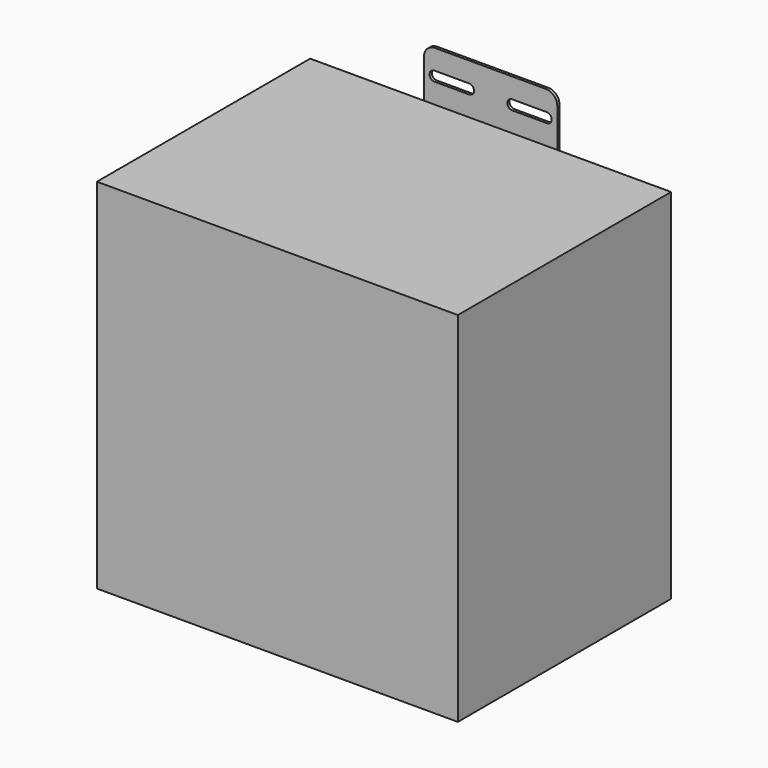
from build123d import *

# Parameters (mm, degrees)
F0_W     = 412.75
F0_H     = 304.8
F1_DEPTH = 204.7875
F3_DEPTH = 3.175


with BuildPart() as f1:
    # F0 (on Top) → F1 (new body, symmetric)
    with BuildSketch(Plane.XY):
        Rectangle(F0_W, F0_H)
    extrude(amount=F1_DEPTH, both=True)

    # F2 (on face) → F3 (join)
    with BuildSketch(Plane(origin=(0, 152.4, 0), x_dir=(-1, 0, 0), z_dir=(0, 1, 0))):
        with BuildLine():
            ThreePointArc((76.2, 249.2375), (72.4802561211, 258.2177561211), (63.5, 261.9375))
            Line((63.5, 261.9375), (-63.5, 261.9375))
            ThreePointArc((-63.5, 261.9375), (-72.4802561211, 258.2177561211), (-76.2, 249.2375))
            Line((-76.2, 249.2375), (-76.2, -249.2375))
            ThreePointArc((-76.2, -249.2375), (-72.4802561211, -258.2177561211), (-63.5, -261.9375))
            Line((-63.5, -261.9375), (63.5, -261.9375))
            ThreePointArc((63.5, -261.9375), (72.4802561211, -258.2177561211), (76.2, -249.2375))
            Line((76.2, -249.2375), (76.2, 249.2375))
        make_face()
        with BuildLine():
            Line((-64.29375, -227.80625), (-24.60625, -227.80625))
            ThreePointArc((-24.60625, -227.80625), (-19.05, -233.3625), (-24.60625, -238.91875))
            Line((-24.60625, -238.91875), (-64.29375, -238.91875))
            ThreePointArc((-64.29375, -238.91875), (-69.85, -233.3625), (-64.29375, -227.80625))
        make_face(mode=Mode.SUBTRACT)
        with BuildLine():
            Line((24.60625, -227.80625), (64.29375, -227.80625))
            ThreePointArc((64.29375, -227.80625), (69.85, -233.3625), (64.29375, -238.91875))
            Line((64.29375, -238.91875), (24.60625, -238.91875))
            ThreePointArc((24.60625, -238.91875), (19.05, -233.3625), (24.60625, -227.80625))
        make_face(mode=Mode.SUBTRACT)
        with BuildLine():
            Line((-64.29375, 238.91875), (-24.60625, 238.91875))
            ThreePointArc((-24.60625, 238.91875), (-19.05, 233.3625), (-24.60625, 227.80625))
            Line((-24.60625, 227.80625), (-64.29375, 227.80625))
            ThreePointArc((-64.29375, 227.80625), (-69.85, 233.3625), (-64.29375, 238.91875))
        make_face(mode=Mode.SUBTRACT)
        with BuildLine():
            Line((24.60625, 238.91875), (64.29375, 238.91875))
            ThreePointArc((64.29375, 238.91875), (69.85, 233.3625), (64.29375, 227.80625))
            Line((64.29375, 227.80625), (24.60625, 227.80625))
            ThreePointArc((24.60625, 227.80625), (19.05, 233.3625), (24.60625, 238.91875))
        make_face(mode=Mode.SUBTRACT)
    extrude(amount=F3_DEPTH)


solid = f1.part
